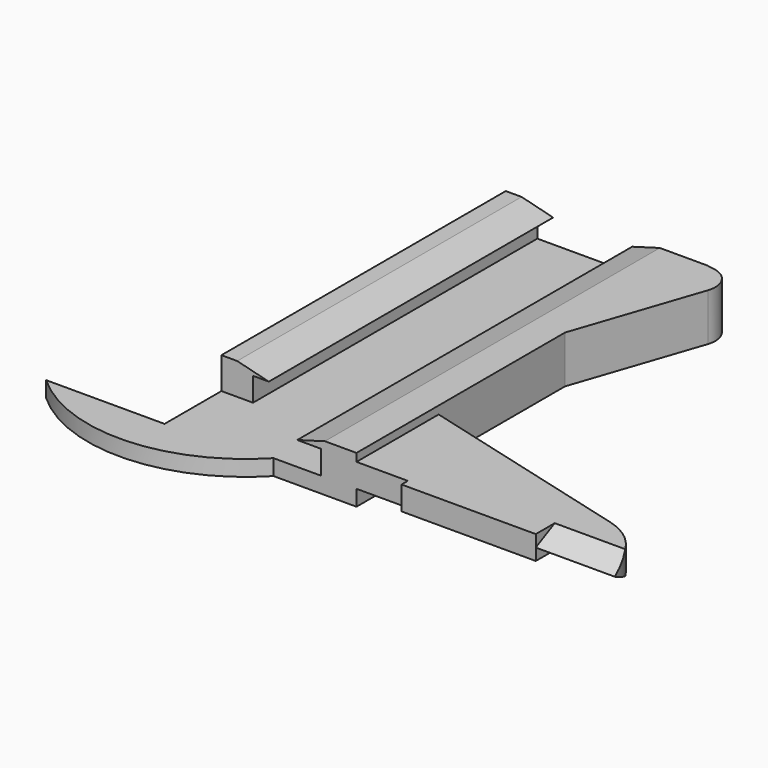
from build123d import *

# Parameters (mm, degrees)
F1_DEPTH  = 53
F3_DEPTH  = 3
F6_DEPTH  = 10
F8_DEPTH  = 2
F9_W      = 4
F9_H      = 8
F9_W_2    = 2
F10_DEPTH = 4
F12_DEPTH = 6
F13_R     = 3


with BuildPart() as f1:
    # F0 (on Front) → F1 (new body)
    with BuildSketch(Plane.XZ):
        Polygon((0, 3), (0, 0), (-15, 0), (-15, 3), (-13, 3), (-17, 4), (-19, 4), (-19, -2), (4.5, -2), (4.5, 4), (0.5, 4), (-3, 3), align=None)
    extrude(amount=F1_DEPTH)

    # F2 (on Top) → F3 (join)
    with BuildSketch(Plane.XY):
        with BuildLine():
            Line((32.151714, -47.409254), (4.5, -40))
            Line((4.5, -40), (4.5, -53))
            Line((4.5, -53), (11, -53))
            Line((11, -53), (11, -54))
            Line((11, -54), (38, -54))
            ThreePointArc((38, -54), (36.065012, -49.826902), (32.151714, -47.409254))
        make_face()
    extrude(amount=F3_DEPTH)

    # F5 (on offset) → F6 (cut)
    with BuildSketch(Plane.YZ.offset(38)):
        Polygon((-59, 3), (-59, 0), (-51, 0), (-54, 1.5), (-51, 3), align=None)
    extrude(amount=-F6_DEPTH, mode=Mode.SUBTRACT)

    # F7 (on face) → F8 (join)
    with BuildSketch(Plane(origin=(0, 0, -2), x_dir=(1, 0, 0), z_dir=(0, 0, -1))):
        with BuildLine():
            Line((-19, 54), (-19, 53))
            Line((-19, 53), (-6, 53))
            ThreePointArc((-6, 53), (-19.795634, 59.222249), (-34, 54))
            Line((-34, 54), (-19, 54))
        make_face()
    extrude(amount=-F8_DEPTH)

    # F9 (on face) → F10 (cut)
    with BuildSketch(Plane.XY.offset(4)):
        with Locations((-15, -49)):
            Rectangle(F9_W, F9_H)
        with Locations((-18, -49)):
            Rectangle(F9_W_2, F9_H)
    extrude(amount=-F10_DEPTH, mode=Mode.SUBTRACT)

    # F11 (on face) → F12 (join)
    with BuildSketch(Plane.XY.offset(4)):
        Polygon((4.5, 0), (4.5, -20), (11, -0.793471), (6.5, 0), align=None)
    extrude(amount=-F12_DEPTH)

    # F13
    f13_edges = [f1.edges().sort_by_distance(p)[0] for p in [
        (11, -0.793471, 1),
    ]]
    fillet(f13_edges, radius=F13_R)


solid = f1.part
